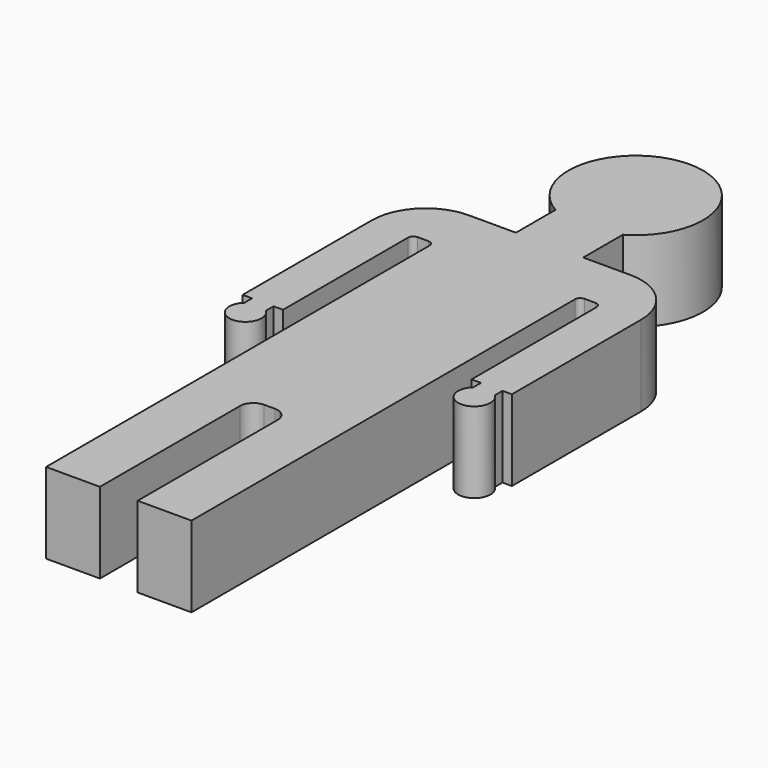
from build123d import *

# Parameters (mm, degrees)
F1_DEPTH = 3


with BuildPart() as f1:
    # F0 (on Top) → F1 (new body)
    with BuildSketch(Plane.XY):
        with BuildLine():
            Line((1.25, -4), (1.25, -2.165064))
            ThreePointArc((1.25, -2.165064), (0, 2.5), (-1.25, -2.165064))
            Line((-1.25, -2.165064), (-1.25, -4))
            Line((-1.25, -4), (-3, -4))
            ThreePointArc((-3, -4), (-4.414214, -4.585786), (-5, -6))
            Line((-5, -6), (-5, -12))
            Line((-5, -12), (-4.65, -12))
            Line((-4.65, -12), (-4.65, -12.359054))
            ThreePointArc((-4.65, -12.359054), (-4.25, -13.406267), (-3.85, -12.359054))
            Line((-3.85, -12.359054), (-3.85, -12))
            Line((-3.85, -12), (-3.5, -12))
            Line((-3.5, -12), (-3.5, -6.2))
            ThreePointArc((-3.5, -6.2), (-3.441421, -6.058579), (-3.3, -6))
            Line((-3.3, -6), (-2.9, -6))
            ThreePointArc((-2.9, -6), (-2.758579, -6.058579), (-2.7, -6.2))
            Line((-2.7, -6.2), (-2.7, -24))
            Line((-2.7, -24), (-0.7, -24))
            Line((-0.7, -24), (-0.7, -17.5))
            ThreePointArc((-0.7, -17.5), (-0.553553, -17.146447), (-0.2, -17))
            Line((-0.2, -17), (0, -17))
            Line((0, -17), (0.2, -17))
            ThreePointArc((0.2, -17), (0.553553, -17.146447), (0.7, -17.5))
            Line((0.7, -17.5), (0.7, -24))
            Line((0.7, -24), (2.7, -24))
            Line((2.7, -24), (2.7, -6.2))
            ThreePointArc((2.7, -6.2), (2.758579, -6.058579), (2.9, -6))
            Line((2.9, -6), (3.3, -6))
            ThreePointArc((3.3, -6), (3.441421, -6.058579), (3.5, -6.2))
            Line((3.5, -6.2), (3.5, -12))
            Line((3.5, -12), (3.85, -12))
            Line((3.85, -12), (3.85, -12.359054))
            ThreePointArc((3.85, -12.359054), (4.25, -13.406267), (4.65, -12.359054))
            Line((4.65, -12.359054), (4.65, -12))
            Line((4.65, -12), (5, -12))
            Line((5, -12), (5, -6))
            ThreePointArc((5, -6), (4.414214, -4.585786), (3, -4))
            Line((3, -4), (1.25, -4))
        make_face()
    extrude(amount=F1_DEPTH)


solid = f1.part
